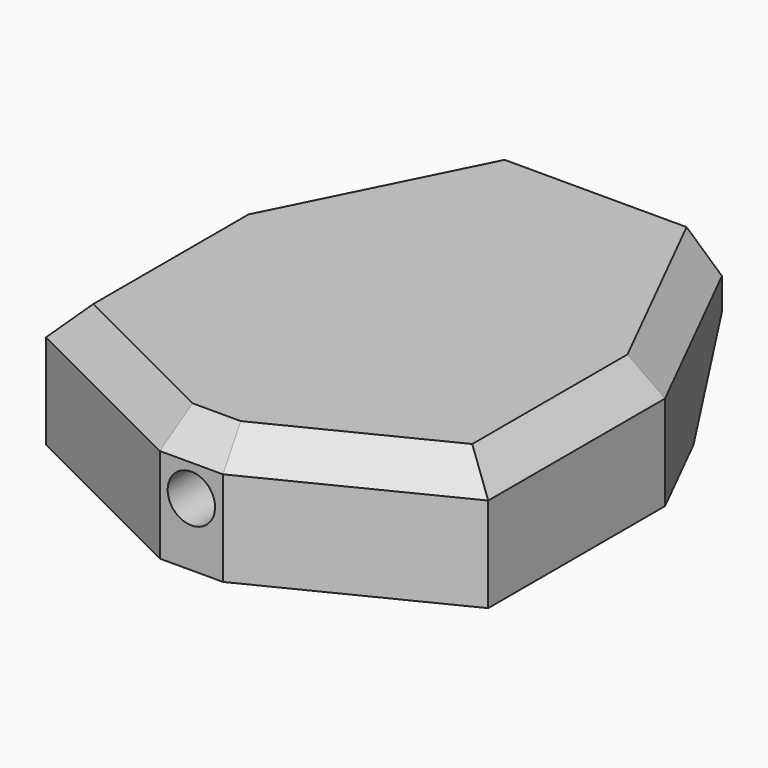
from build123d import *

# Parameters (mm, degrees)
F0_W      = 88.9
F0_H      = 25.4
F1_DEPTH  = 50.8
F3_DEPTH  = 25.4
F5_DEPTH  = 44.451
F6_DEPTH  = 44.451
F7_SIZE   = 6.35
F8_R      = 25.4
F9_DEPTH  = 7.62
F10_R     = 1.35255
F11_DEPTH = 25.4
F12_R     = 4.7625
F13_DEPTH = 19.05
F14_R     = 1.35255
F15_DEPTH = 12.7


with BuildPart() as f1:
    # F0 (on Front) → F1 (new body, symmetric)
    with BuildSketch(Plane.XZ):
        Rectangle(F0_W, F0_H)
    extrude(amount=F1_DEPTH, both=True)

    # F2 (on face) → F3 (cut)
    with BuildSketch(Plane.XY.offset(12.7)):
        Polygon((44.45, -31.75), (6.35, -50.8), (44.45, -50.8), align=None)
        Polygon((-6.35, -50.8), (-44.45, -31.75), (-44.45, -50.8), align=None)
        Polygon((-25.4, 50.8), (-44.45, 50.8), (-44.45, 12.7), align=None)
        Polygon((44.45, 12.7), (44.45, 50.8), (25.4, 50.8), align=None)
    extrude(amount=-F3_DEPTH, mode=Mode.SUBTRACT)

    # F4 (on Right) → F5 (cut, through all)
    with BuildSketch(Plane.YZ):
        Polygon((50.8, 0), (31.75, -12.7), (50.8, -12.7), align=None)
    extrude(amount=-F5_DEPTH, mode=Mode.SUBTRACT)

    # F5_face (on face) → F6 (cut, through all)
    with BuildSketch(Plane(origin=(0, 44.45, -8.466667), x_dir=(0, 1, 0), z_dir=(-1, 0, 0))):
        Polygon((-12.7, 4.233333), (6.35, -8.466667), (6.35, 4.233333), align=None)
    extrude(amount=-F6_DEPTH, mode=Mode.SUBTRACT)

    # F7
    f7_edges = [f1.edges().sort_by_distance(p)[0] for p in [
        (25.4, -41.275, 12.7),
        (0, -50.8, 12.7),
        (-25.4, -41.275, 12.7),
        (-44.45, -9.525, 12.7),
        (-34.925, 31.75, 12.7),
        (44.45, -9.525, 12.7),
        (34.925, 31.75, 12.7),
    ]]
    chamfer(f7_edges, length=F7_SIZE)

    # F8 (on face) → F9 (join)
    with BuildSketch(Plane(origin=(0, 0, -12.7), x_dir=(1, 0, 0), z_dir=(0, 0, -1))):
        Circle(F8_R)
    extrude(amount=F9_DEPTH)

    # F10 (on face) → F11 (cut)
    with BuildSketch(Plane(origin=(0, 0, -20.32), x_dir=(1, 0, 0), z_dir=(0, 0, -1))):
        with Locations((4.490128, -4.490128)):
            Circle(F10_R)
        with Locations((-4.490128, 4.490128)):
            Circle(F10_R)
    extrude(amount=-F11_DEPTH, mode=Mode.SUBTRACT)

    # F12 (on face) → F13 (cut)
    with BuildSketch(Plane.XZ.offset(50.8)):
        Circle(F12_R)
    extrude(amount=-F13_DEPTH, mode=Mode.SUBTRACT)

    # F14 (on face) → F15 (cut)
    with BuildSketch(Plane(origin=(0, 0, -12.7), x_dir=(1, 0, 0), z_dir=(0, 0, -1))):
        with Locations((0, 38.1)):
            Circle(F14_R)
    extrude(amount=-F15_DEPTH, mode=Mode.SUBTRACT)


solid = f1.part
